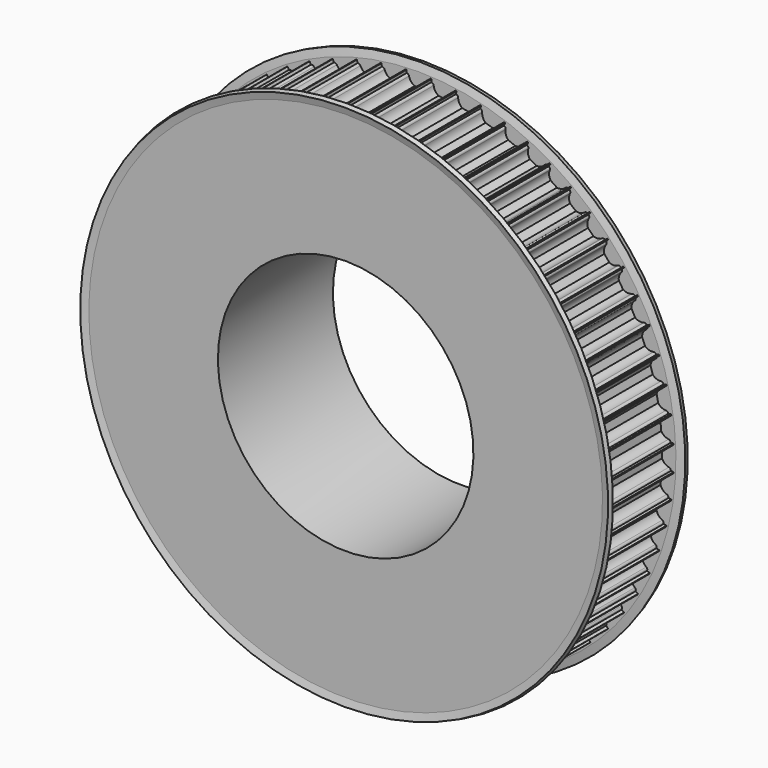
from build123d import *

# Parameters (mm, degrees)
F4_DEPTH = 45.001


with BuildPart() as f1:
    # F0 (on Right) → F1 (revolve)
    with BuildSketch(Plane.YZ):
        Polygon((0, 80), (0, 40), (45, 40), (45, 55.5), (30, 55.5), (30, 80), align=None)
    revolve(axis=Axis((0, 1.1868995641, 0), (0, 1, 0)))

    # F3 (on face) → F4 (cut, through all)
    with BuildSketch(Plane.XZ):
        with BuildLine():
            Line((3.75, 81), (-3.75, 81))
            Line((-3.75, 81), (-3.75, 79))
            Line((-3.75, 79), (-3.6742346142, 79))
            ThreePointArc((-3.6742346142, 79), (-3.1998929651, 78.8309475019), (-2.9393876913, 78.4))
            ThreePointArc((-2.9393876913, 78.4), (-2.3317592111, 77.1124357014), (-1.1989578808, 76.25))
            Line((-1.1989578808, 76.25), (1.1989578808, 76.25))
            ThreePointArc((1.1989578808, 76.25), (2.3317592111, 77.1124357014), (2.9393876913, 78.4))
            ThreePointArc((2.9393876913, 78.4), (3.1998929651, 78.8309475019), (3.6742346142, 79))
            Line((3.6742346142, 79), (3.75, 79))
            Line((3.75, 79), (3.75, 81))
        make_face()
        with BuildLine():
            Line((-4.2074456417, 80.9775271367), (-11.6713310917, 80.2423985842))
            Line((-11.6713310917, 80.2423985842), (-11.4752968111, 78.2520291309))
            Line((-11.4752968111, 78.2520291309), (-11.3998962563, 78.2594554373))
            ThreePointArc((-11.3998962563, 78.2594554373), (-10.9112686495, 78.1377105852), (-10.609777538, 77.7343721953))
            ThreePointArc((-10.609777538, 77.7343721953), (-9.8788715845, 76.5125658767), (-8.6669915211, 75.7653169859))
            Line((-8.6669915211, 75.7653169859), (-6.2806223792, 76.0003538316))
            ThreePointArc((-6.2806223792, 76.0003538316), (-5.2378092781, 76.9696706163), (-4.7593100656, 78.3105929469))
            ThreePointArc((-4.7593100656, 78.3105929469), (-4.5422994377, 78.7649993008), (-4.0868119158, 78.9797313769))
            Line((-4.0868119158, 78.9797313769), (-4.011411361, 78.9871576833))
            Line((-4.011411361, 78.9871576833), (-4.2074456417, 80.9775271367))
        make_face()
        with BuildLine():
            Line((-12.1243712818, 80.1751964202), (-19.4802608848, 78.7120190051))
            Line((-19.4802608848, 78.7120190051), (-19.0900802408, 76.7504484443))
            Line((-19.0900802408, 76.7504484443), (-19.0157706656, 76.7652295378))
            ThreePointArc((-19.0157706656, 76.7652295378), (-18.5175628521, 76.6919648011), (-18.1779894271, 76.3201198924))
            ThreePointArc((-18.1779894271, 76.3201198924), (-17.3308450242, 75.1758382166), (-16.0515572951, 74.5509725517))
            Line((-16.0515572951, 74.5509725517), (-13.6997168124, 75.0187827098))
            ThreePointArc((-13.6997168124, 75.0187827098), (-12.7569348007, 76.0856455273), (-12.412173065, 77.4670120748))
            ThreePointArc((-12.412173065, 77.4670120748), (-12.2407470139, 77.9405010991), (-11.8085002129, 78.1988447659))
            Line((-11.8085002129, 78.1988447659), (-11.7341906378, 78.2136258594))
            Line((-11.7341906378, 78.2136258594), (-12.1243712818, 80.1751964202))
        make_face()
        with BuildLine():
            Line((-19.9245325986, 78.600734734), (-27.1015851166, 76.4235996546))
            Line((-27.1015851166, 76.4235996546), (-26.5210157621, 74.5097189831))
            Line((-26.5210157621, 74.5097189831), (-26.4485128083, 74.5317125137))
            ThreePointArc((-26.4485128083, 74.5317125137), (-25.9455228016, 74.5076334719), (-25.5711373409, 74.1708631141))
            ThreePointArc((-25.5711373409, 74.1708631141), (-24.6159129522, 73.1151261392), (-23.2815377977, 72.6186614981))
            Line((-23.2815377977, 72.6186614981), (-20.9868754836, 73.3147397011))
            ThreePointArc((-20.9868754836, 73.3147397011), (-20.1532040675, 74.4688740793), (-19.9455000526, 75.8773815287))
            ThreePointArc((-19.9455000526, 75.8773815287), (-19.8213095049, 76.3653932652), (-19.4164661979, 76.664860532))
            Line((-19.4164661979, 76.664860532), (-19.3439632441, 76.6868540625))
            Line((-19.3439632441, 76.6868540625), (-19.9245325986, 78.600734734))
        make_face()
        with BuildLine():
            Line((-27.5328097747, 76.2693050048), (-34.4619062685, 73.399179262))
            Line((-34.4619062685, 73.399179262), (-33.6965394038, 71.551420197))
            Line((-33.6965394038, 71.551420197), (-33.6265413145, 71.5804143549))
            ThreePointArc((-33.6265413145, 71.5804143549), (-33.1236131834, 71.6057529024), (-32.7180212236, 71.3073003781))
            ThreePointArc((-32.7180212236, 71.3073003781), (-31.6639161821, 70.3502754283), (-30.2873043643, 69.9869930369))
            Line((-30.2873043643, 69.9869930369), (-28.0719190714, 70.9046356711))
            ThreePointArc((-28.0719190714, 70.9046356711), (-27.3553869623, 72.134926665), (-27.2867409713, 73.5570103197))
            ThreePointArc((-27.2867409713, 73.5570103197), (-27.2109819499, 74.0548449486), (-26.8374409992, 74.3925517819))
            Line((-26.8374409992, 74.3925517819), (-26.7674429099, 74.4215459398))
            Line((-26.7674429099, 74.4215459398), (-27.5328097747, 76.2693050048))
        make_face()
        with BuildLine():
            Line((-34.8759309416, 73.2033601753), (-41.4903404242, 69.6678846491))
            Line((-41.4903404242, 69.6678846491), (-40.5475469506, 67.9040421204))
            Line((-40.5475469506, 67.9040421204), (-40.4807278457, 67.9397576761))
            ThreePointArc((-40.4807278457, 67.9397576761), (-39.9827050629, 68.0142697887), (-39.5498126763, 67.7570093589))
            ThreePointArc((-39.5498126763, 67.7570093589), (-38.40697859, 66.9079131076), (-37.0013876331, 66.6813115739))
            Line((-37.0013876331, 66.6813115739), (-34.8866147328, 67.8116812392))
            ThreePointArc((-34.8866147328, 67.8116812392), (-34.2941225267, 69.106280474), (-34.365195658, 70.5282448909))
            ThreePointArc((-34.365195658, 70.5282448909), (-34.3385977637, 71.0311079926), (-33.9999565728, 71.403802091))
            Line((-33.9999565728, 71.403802091), (-33.9331374679, 71.4395176466))
            Line((-33.9331374679, 71.4395176466), (-34.8759309416, 73.2033601753))
        make_face()
        with BuildLine():
            Line((-41.8831778285, 69.4324269703), (-48.1191999207, 65.2656502227))
            Line((-48.1191999207, 65.2656502227), (-47.0080594547, 63.6027109981))
            Line((-47.0080594547, 63.6027109981), (-46.9450628387, 63.6448039911))
            ThreePointArc((-46.9450628387, 63.6448039911), (-46.4567416359, 63.7677720766), (-46.0007178129, 63.5541812999))
            ThreePointArc((-46.0007178129, 63.5541812999), (-44.7801607986, 62.8211910081), (-43.3591273121, 62.7334526288))
            Line((-43.3591273121, 62.7334526288), (-41.3653332234, 64.0656632473))
            ThreePointArc((-41.3653332234, 64.0656632473), (-40.9025869441, 65.4121030246), (-41.1126947246, 66.8202539091))
            ThreePointArc((-41.1126947246, 66.8202539091), (-41.1355141097, 67.3233026372), (-40.8350339784, 67.7273947527))
            Line((-40.8350339784, 67.7273947527), (-40.7720373624, 67.7694877457))
            Line((-40.7720373624, 67.7694877457), (-41.8831778285, 69.4324269703))
        make_face()
        with BuildLine():
            Line((-48.4870668171, 64.992821538), (-54.2846452174, 60.2348719068))
            Line((-54.2846452174, 60.2348719068), (-53.015858649, 58.688851))
            Line((-53.015858649, 58.688851), (-52.9572912138, 58.736916052))
            ThreePointArc((-52.9572912138, 58.736916052), (-52.4833743912, 58.9071558603), (-52.0086108903, 58.7392917327))
            ThreePointArc((-52.0086108903, 58.7392917327), (-50.7220855794, 58.1294664976), (-49.2992948925, 58.1814362413))
            Line((-49.2992948925, 58.1814362413), (-47.4456809425, 59.7026578965))
            ThreePointArc((-47.4456809425, 59.7026578965), (-47.1171370895, 61.0879712653), (-47.4642560665, 62.4687473546))
            ThreePointArc((-47.4642560665, 62.4687473546), (-47.5362729678, 62.9671370746), (-47.2768476841, 63.3987355793))
            Line((-47.2768476841, 63.3987355793), (-47.2182802488, 63.4468006313))
            Line((-47.2182802488, 63.4468006313), (-48.4870668171, 64.992821538))
        make_face()
        with BuildLine():
            Line((-54.6239988467, 59.9272997056), (-59.9272997056, 54.6239988467))
            Line((-59.9272997056, 54.6239988467), (-58.5130861432, 53.2097852843))
            Line((-58.5130861432, 53.2097852843), (-58.4595119251, 53.2633595024))
            ThreePointArc((-58.4595119251, 53.2633595024), (-58.0045635607, 53.4792315312), (-57.5156326141, 53.3587106759))
            ThreePointArc((-57.5156326141, 53.3587106759), (-56.1755289486, 52.877923448), (-54.7646833134, 53.0691008176))
            Line((-54.7646833134, 53.0691008176), (-53.0691008176, 54.7646833134))
            ThreePointArc((-53.0691008176, 54.7646833134), (-52.877923448, 56.1755289486), (-53.3587106759, 57.5156326141))
            ThreePointArc((-53.3587106759, 57.5156326141), (-53.4792315312, 58.0045635607), (-53.2633595024, 58.4595119251))
            Line((-53.2633595024, 58.4595119251), (-53.2097852843, 58.5130861432))
            Line((-53.2097852843, 58.5130861432), (-54.6239988467, 59.9272997056))
        make_face()
        with BuildLine():
            Line((-60.2348719068, 54.2846452174), (-64.992821538, 48.4870668171))
            Line((-64.992821538, 48.4870668171), (-63.4468006313, 47.2182802488))
            Line((-63.4468006313, 47.2182802488), (-63.3987355793, 47.2768476841))
            ThreePointArc((-63.3987355793, 47.2768476841), (-62.9671370746, 47.5362729678), (-62.4687473546, 47.4642560665))
            ThreePointArc((-62.4687473546, 47.4642560665), (-61.0879712653, 47.1171370895), (-59.7026578965, 47.4456809425))
            Line((-59.7026578965, 47.4456809425), (-58.1814362413, 49.2992948925))
            ThreePointArc((-58.1814362413, 49.2992948925), (-58.1294664976, 50.7220855794), (-58.7392917327, 52.0086108903))
            ThreePointArc((-58.7392917327, 52.0086108903), (-58.9071558603, 52.4833743912), (-58.736916052, 52.9572912138))
            Line((-58.736916052, 52.9572912138), (-58.688851, 53.015858649))
            Line((-58.688851, 53.015858649), (-60.2348719068, 54.2846452174))
        make_face()
        with BuildLine():
            Line((-65.2656502227, 48.1191999207), (-69.4324269703, 41.8831778285))
            Line((-69.4324269703, 41.8831778285), (-67.7694877457, 40.7720373624))
            Line((-67.7694877457, 40.7720373624), (-67.7273947527, 40.8350339784))
            ThreePointArc((-67.7273947527, 40.8350339784), (-67.3233026372, 41.1355141097), (-66.8202539091, 41.1126947246))
            ThreePointArc((-66.8202539091, 41.1126947246), (-65.4121030246, 40.9025869441), (-64.0656632473, 41.3653332234))
            Line((-64.0656632473, 41.3653332234), (-62.7334526288, 43.3591273121))
            ThreePointArc((-62.7334526288, 43.3591273121), (-62.8211910081, 44.7801607986), (-63.5541812999, 46.0007178129))
            ThreePointArc((-63.5541812999, 46.0007178129), (-63.7677720766, 46.4567416359), (-63.6448039911, 46.9450628387))
            Line((-63.6448039911, 46.9450628387), (-63.6027109981, 47.0080594547))
            Line((-63.6027109981, 47.0080594547), (-65.2656502227, 48.1191999207))
        make_face()
        with BuildLine():
            Line((-69.6678846491, 41.4903404242), (-73.2033601753, 34.8759309416))
            Line((-73.2033601753, 34.8759309416), (-71.4395176466, 33.9331374679))
            Line((-71.4395176466, 33.9331374679), (-71.403802091, 33.9999565728))
            ThreePointArc((-71.403802091, 33.9999565728), (-71.0311079926, 34.3385977637), (-70.5282448909, 34.365195658))
            ThreePointArc((-70.5282448909, 34.365195658), (-69.106280474, 34.2941225267), (-67.8116812392, 34.8866147328))
            Line((-67.8116812392, 34.8866147328), (-66.6813115739, 37.0013876331))
            ThreePointArc((-66.6813115739, 37.0013876331), (-66.9079131076, 38.40697859), (-67.7570093589, 39.5498126763))
            ThreePointArc((-67.7570093589, 39.5498126763), (-68.0142697887, 39.9827050629), (-67.9397576761, 40.4807278457))
            Line((-67.9397576761, 40.4807278457), (-67.9040421204, 40.5475469506))
            Line((-67.9040421204, 40.5475469506), (-69.6678846491, 41.4903404242))
        make_face()
        with BuildLine():
            Line((-73.399179262, 34.4619062685), (-76.2693050048, 27.5328097747))
            Line((-76.2693050048, 27.5328097747), (-74.4215459398, 26.7674429099))
            Line((-74.4215459398, 26.7674429099), (-74.3925517819, 26.8374409992))
            ThreePointArc((-74.3925517819, 26.8374409992), (-74.0548449486, 27.2109819499), (-73.5570103197, 27.2867409713))
            ThreePointArc((-73.5570103197, 27.2867409713), (-72.134926665, 27.3553869623), (-70.9046356711, 28.0719190714))
            Line((-70.9046356711, 28.0719190714), (-69.9869930369, 30.2873043643))
            ThreePointArc((-69.9869930369, 30.2873043643), (-70.3502754283, 31.6639161821), (-71.3073003781, 32.7180212236))
            ThreePointArc((-71.3073003781, 32.7180212236), (-71.6057529024, 33.1236131834), (-71.5804143549, 33.6265413145))
            Line((-71.5804143549, 33.6265413145), (-71.551420197, 33.6965394038))
            Line((-71.551420197, 33.6965394038), (-73.399179262, 34.4619062685))
        make_face()
        with BuildLine():
            Line((-76.4235996546, 27.1015851166), (-78.600734734, 19.9245325986))
            Line((-78.600734734, 19.9245325986), (-76.6868540625, 19.3439632441))
            Line((-76.6868540625, 19.3439632441), (-76.664860532, 19.4164661979))
            ThreePointArc((-76.664860532, 19.4164661979), (-76.3653932652, 19.8213095049), (-75.8773815287, 19.9455000526))
            ThreePointArc((-75.8773815287, 19.9455000526), (-74.4688740793, 20.1532040675), (-73.3147397011, 20.9868754836))
            Line((-73.3147397011, 20.9868754836), (-72.6186614981, 23.2815377977))
            ThreePointArc((-72.6186614981, 23.2815377977), (-73.1151261392, 24.6159129522), (-74.1708631141, 25.5711373409))
            ThreePointArc((-74.1708631141, 25.5711373409), (-74.5076334719, 25.9455228016), (-74.5317125137, 26.4485128083))
            Line((-74.5317125137, 26.4485128083), (-74.5097189831, 26.5210157621))
            Line((-74.5097189831, 26.5210157621), (-76.4235996546, 27.1015851166))
        make_face()
        with BuildLine():
            Line((-78.7120190051, 19.4802608848), (-80.1751964202, 12.1243712818))
            Line((-80.1751964202, 12.1243712818), (-78.2136258594, 11.7341906378))
            Line((-78.2136258594, 11.7341906378), (-78.1988447659, 11.8085002129))
            ThreePointArc((-78.1988447659, 11.8085002129), (-77.9405010991, 12.2407470139), (-77.4670120748, 12.412173065))
            ThreePointArc((-77.4670120748, 12.412173065), (-76.0856455273, 12.7569348007), (-75.0187827098, 13.6997168124))
            Line((-75.0187827098, 13.6997168124), (-74.5509725517, 16.0515572951))
            ThreePointArc((-74.5509725517, 16.0515572951), (-75.1758382166, 17.3308450242), (-76.3201198924, 18.1779894271))
            ThreePointArc((-76.3201198924, 18.1779894271), (-76.6919648011, 18.5175628521), (-76.7652295378, 19.0157706656))
            Line((-76.7652295378, 19.0157706656), (-76.7504484443, 19.0900802408))
            Line((-76.7504484443, 19.0900802408), (-78.7120190051, 19.4802608848))
        make_face()
        with BuildLine():
            Line((-80.2423985842, 11.6713310917), (-80.9775271367, 4.2074456417))
            Line((-80.9775271367, 4.2074456417), (-78.9871576833, 4.011411361))
            Line((-78.9871576833, 4.011411361), (-78.9797313769, 4.0868119158))
            ThreePointArc((-78.9797313769, 4.0868119158), (-78.7649993008, 4.5422994377), (-78.3105929469, 4.7593100656))
            ThreePointArc((-78.3105929469, 4.7593100656), (-76.9696706163, 5.2378092781), (-76.0003538316, 6.2806223792))
            Line((-76.0003538316, 6.2806223792), (-75.7653169859, 8.6669915211))
            ThreePointArc((-75.7653169859, 8.6669915211), (-76.5125658767, 9.8788715845), (-77.7343721953, 10.609777538))
            ThreePointArc((-77.7343721953, 10.609777538), (-78.1377105852, 10.9112686495), (-78.2594554373, 11.3998962563))
            Line((-78.2594554373, 11.3998962563), (-78.2520291309, 11.4752968111))
            Line((-78.2520291309, 11.4752968111), (-80.2423985842, 11.6713310917))
        make_face()
        with BuildLine():
            Line((-81, 3.75), (-81, -3.75))
            Line((-81, -3.75), (-79, -3.75))
            Line((-79, -3.75), (-79, -3.6742346142))
            ThreePointArc((-79, -3.6742346142), (-78.8309475019, -3.1998929651), (-78.4, -2.9393876913))
            ThreePointArc((-78.4, -2.9393876913), (-77.1124357014, -2.3317592111), (-76.25, -1.1989578808))
            Line((-76.25, -1.1989578808), (-76.25, 1.1989578808))
            ThreePointArc((-76.25, 1.1989578808), (-77.1124357014, 2.3317592111), (-78.4, 2.9393876913))
            ThreePointArc((-78.4, 2.9393876913), (-78.8309475019, 3.1998929651), (-79, 3.6742346142))
            Line((-79, 3.6742346142), (-79, 3.75))
            Line((-79, 3.75), (-81, 3.75))
        make_face()
        with BuildLine():
            Line((-80.9775271367, -4.2074456417), (-80.2423985842, -11.6713310917))
            Line((-80.2423985842, -11.6713310917), (-78.2520291309, -11.4752968111))
            Line((-78.2520291309, -11.4752968111), (-78.2594554373, -11.3998962563))
            ThreePointArc((-78.2594554373, -11.3998962563), (-78.1377105852, -10.9112686495), (-77.7343721953, -10.609777538))
            ThreePointArc((-77.7343721953, -10.609777538), (-76.5125658767, -9.8788715845), (-75.7653169859, -8.6669915211))
            Line((-75.7653169859, -8.6669915211), (-76.0003538316, -6.2806223792))
            ThreePointArc((-76.0003538316, -6.2806223792), (-76.9696706163, -5.2378092781), (-78.3105929469, -4.7593100656))
            ThreePointArc((-78.3105929469, -4.7593100656), (-78.7649993008, -4.5422994377), (-78.9797313769, -4.0868119158))
            Line((-78.9797313769, -4.0868119158), (-78.9871576833, -4.011411361))
            Line((-78.9871576833, -4.011411361), (-80.9775271367, -4.2074456417))
        make_face()
        with BuildLine():
            Line((-80.1751964202, -12.1243712818), (-78.7120190051, -19.4802608848))
            Line((-78.7120190051, -19.4802608848), (-76.7504484443, -19.0900802408))
            Line((-76.7504484443, -19.0900802408), (-76.7652295378, -19.0157706656))
            ThreePointArc((-76.7652295378, -19.0157706656), (-76.6919648011, -18.5175628521), (-76.3201198924, -18.1779894271))
            ThreePointArc((-76.3201198924, -18.1779894271), (-75.1758382166, -17.3308450242), (-74.5509725517, -16.0515572951))
            Line((-74.5509725517, -16.0515572951), (-75.0187827098, -13.6997168124))
            ThreePointArc((-75.0187827098, -13.6997168124), (-76.0856455273, -12.7569348007), (-77.4670120748, -12.412173065))
            ThreePointArc((-77.4670120748, -12.412173065), (-77.9405010991, -12.2407470139), (-78.1988447659, -11.8085002129))
            Line((-78.1988447659, -11.8085002129), (-78.2136258594, -11.7341906378))
            Line((-78.2136258594, -11.7341906378), (-80.1751964202, -12.1243712818))
        make_face()
        with BuildLine():
            Line((-78.600734734, -19.9245325986), (-76.4235996546, -27.1015851166))
            Line((-76.4235996546, -27.1015851166), (-74.5097189831, -26.5210157621))
            Line((-74.5097189831, -26.5210157621), (-74.5317125137, -26.4485128083))
            ThreePointArc((-74.5317125137, -26.4485128083), (-74.5076334719, -25.9455228016), (-74.1708631141, -25.5711373409))
            ThreePointArc((-74.1708631141, -25.5711373409), (-73.1151261392, -24.6159129522), (-72.6186614981, -23.2815377977))
            Line((-72.6186614981, -23.2815377977), (-73.3147397011, -20.9868754836))
            ThreePointArc((-73.3147397011, -20.9868754836), (-74.4688740793, -20.1532040675), (-75.8773815287, -19.9455000526))
            ThreePointArc((-75.8773815287, -19.9455000526), (-76.3653932652, -19.8213095049), (-76.664860532, -19.4164661979))
            Line((-76.664860532, -19.4164661979), (-76.6868540625, -19.3439632441))
            Line((-76.6868540625, -19.3439632441), (-78.600734734, -19.9245325986))
        make_face()
        with BuildLine():
            Line((-76.2693050048, -27.5328097747), (-73.399179262, -34.4619062685))
            Line((-73.399179262, -34.4619062685), (-71.551420197, -33.6965394038))
            Line((-71.551420197, -33.6965394038), (-71.5804143549, -33.6265413145))
            ThreePointArc((-71.5804143549, -33.6265413145), (-71.6057529024, -33.1236131834), (-71.3073003781, -32.7180212236))
            ThreePointArc((-71.3073003781, -32.7180212236), (-70.3502754283, -31.6639161821), (-69.9869930369, -30.2873043643))
            Line((-69.9869930369, -30.2873043643), (-70.9046356711, -28.0719190714))
            ThreePointArc((-70.9046356711, -28.0719190714), (-72.134926665, -27.3553869623), (-73.5570103197, -27.2867409713))
            ThreePointArc((-73.5570103197, -27.2867409713), (-74.0548449486, -27.2109819499), (-74.3925517819, -26.8374409992))
            Line((-74.3925517819, -26.8374409992), (-74.4215459398, -26.7674429099))
            Line((-74.4215459398, -26.7674429099), (-76.2693050048, -27.5328097747))
        make_face()
        with BuildLine():
            Line((-73.2033601753, -34.8759309416), (-69.6678846491, -41.4903404242))
            Line((-69.6678846491, -41.4903404242), (-67.9040421204, -40.5475469506))
            Line((-67.9040421204, -40.5475469506), (-67.9397576761, -40.4807278457))
            ThreePointArc((-67.9397576761, -40.4807278457), (-68.0142697887, -39.9827050629), (-67.7570093589, -39.5498126763))
            ThreePointArc((-67.7570093589, -39.5498126763), (-66.9079131076, -38.40697859), (-66.6813115739, -37.0013876331))
            Line((-66.6813115739, -37.0013876331), (-67.8116812392, -34.8866147328))
            ThreePointArc((-67.8116812392, -34.8866147328), (-69.106280474, -34.2941225267), (-70.5282448909, -34.365195658))
            ThreePointArc((-70.5282448909, -34.365195658), (-71.0311079926, -34.3385977637), (-71.403802091, -33.9999565728))
            Line((-71.403802091, -33.9999565728), (-71.4395176466, -33.9331374679))
            Line((-71.4395176466, -33.9331374679), (-73.2033601753, -34.8759309416))
        make_face()
        with BuildLine():
            Line((-69.4324269703, -41.8831778285), (-65.2656502227, -48.1191999207))
            Line((-65.2656502227, -48.1191999207), (-63.6027109981, -47.0080594547))
            Line((-63.6027109981, -47.0080594547), (-63.6448039911, -46.9450628387))
            ThreePointArc((-63.6448039911, -46.9450628387), (-63.7677720766, -46.4567416359), (-63.5541812999, -46.0007178129))
            ThreePointArc((-63.5541812999, -46.0007178129), (-62.8211910081, -44.7801607986), (-62.7334526288, -43.3591273121))
            Line((-62.7334526288, -43.3591273121), (-64.0656632473, -41.3653332234))
            ThreePointArc((-64.0656632473, -41.3653332234), (-65.4121030246, -40.9025869441), (-66.8202539091, -41.1126947246))
            ThreePointArc((-66.8202539091, -41.1126947246), (-67.3233026372, -41.1355141097), (-67.7273947527, -40.8350339784))
            Line((-67.7273947527, -40.8350339784), (-67.7694877457, -40.7720373624))
            Line((-67.7694877457, -40.7720373624), (-69.4324269703, -41.8831778285))
        make_face()
        with BuildLine():
            Line((-64.992821538, -48.4870668171), (-60.2348719068, -54.2846452174))
            Line((-60.2348719068, -54.2846452174), (-58.688851, -53.015858649))
            Line((-58.688851, -53.015858649), (-58.736916052, -52.9572912138))
            ThreePointArc((-58.736916052, -52.9572912138), (-58.9071558603, -52.4833743912), (-58.7392917327, -52.0086108903))
            ThreePointArc((-58.7392917327, -52.0086108903), (-58.1294664976, -50.7220855794), (-58.1814362413, -49.2992948925))
            Line((-58.1814362413, -49.2992948925), (-59.7026578965, -47.4456809425))
            ThreePointArc((-59.7026578965, -47.4456809425), (-61.0879712653, -47.1171370895), (-62.4687473546, -47.4642560665))
            ThreePointArc((-62.4687473546, -47.4642560665), (-62.9671370746, -47.5362729678), (-63.3987355793, -47.2768476841))
            Line((-63.3987355793, -47.2768476841), (-63.4468006313, -47.2182802488))
            Line((-63.4468006313, -47.2182802488), (-64.992821538, -48.4870668171))
        make_face()
        with BuildLine():
            Line((-59.9272997056, -54.6239988467), (-54.6239988467, -59.9272997056))
            Line((-54.6239988467, -59.9272997056), (-53.2097852843, -58.5130861432))
            Line((-53.2097852843, -58.5130861432), (-53.2633595024, -58.4595119251))
            ThreePointArc((-53.2633595024, -58.4595119251), (-53.4792315312, -58.0045635607), (-53.3587106759, -57.5156326141))
            ThreePointArc((-53.3587106759, -57.5156326141), (-52.877923448, -56.1755289486), (-53.0691008176, -54.7646833134))
            Line((-53.0691008176, -54.7646833134), (-54.7646833134, -53.0691008176))
            ThreePointArc((-54.7646833134, -53.0691008176), (-56.1755289486, -52.877923448), (-57.5156326141, -53.3587106759))
            ThreePointArc((-57.5156326141, -53.3587106759), (-58.0045635607, -53.4792315312), (-58.4595119251, -53.2633595024))
            Line((-58.4595119251, -53.2633595024), (-58.5130861432, -53.2097852843))
            Line((-58.5130861432, -53.2097852843), (-59.9272997056, -54.6239988467))
        make_face()
        with BuildLine():
            Line((-54.2846452174, -60.2348719068), (-48.4870668171, -64.992821538))
            Line((-48.4870668171, -64.992821538), (-47.2182802488, -63.4468006313))
            Line((-47.2182802488, -63.4468006313), (-47.2768476841, -63.3987355793))
            ThreePointArc((-47.2768476841, -63.3987355793), (-47.5362729678, -62.9671370746), (-47.4642560665, -62.4687473546))
            ThreePointArc((-47.4642560665, -62.4687473546), (-47.1171370895, -61.0879712653), (-47.4456809425, -59.7026578965))
            Line((-47.4456809425, -59.7026578965), (-49.2992948925, -58.1814362413))
            ThreePointArc((-49.2992948925, -58.1814362413), (-50.7220855794, -58.1294664976), (-52.0086108903, -58.7392917327))
            ThreePointArc((-52.0086108903, -58.7392917327), (-52.4833743912, -58.9071558603), (-52.9572912138, -58.736916052))
            Line((-52.9572912138, -58.736916052), (-53.015858649, -58.688851))
            Line((-53.015858649, -58.688851), (-54.2846452174, -60.2348719068))
        make_face()
        with BuildLine():
            Line((-48.1191999207, -65.2656502227), (-41.8831778285, -69.4324269703))
            Line((-41.8831778285, -69.4324269703), (-40.7720373624, -67.7694877457))
            Line((-40.7720373624, -67.7694877457), (-40.8350339784, -67.7273947527))
            ThreePointArc((-40.8350339784, -67.7273947527), (-41.1355141097, -67.3233026372), (-41.1126947246, -66.8202539091))
            ThreePointArc((-41.1126947246, -66.8202539091), (-40.9025869441, -65.4121030246), (-41.3653332234, -64.0656632473))
            Line((-41.3653332234, -64.0656632473), (-43.3591273121, -62.7334526288))
            ThreePointArc((-43.3591273121, -62.7334526288), (-44.7801607986, -62.8211910081), (-46.0007178129, -63.5541812999))
            ThreePointArc((-46.0007178129, -63.5541812999), (-46.4567416359, -63.7677720766), (-46.9450628387, -63.6448039911))
            Line((-46.9450628387, -63.6448039911), (-47.0080594547, -63.6027109981))
            Line((-47.0080594547, -63.6027109981), (-48.1191999207, -65.2656502227))
        make_face()
        with BuildLine():
            Line((-41.4903404242, -69.6678846491), (-34.8759309416, -73.2033601753))
            Line((-34.8759309416, -73.2033601753), (-33.9331374679, -71.4395176466))
            Line((-33.9331374679, -71.4395176466), (-33.9999565728, -71.403802091))
            ThreePointArc((-33.9999565728, -71.403802091), (-34.3385977637, -71.0311079926), (-34.365195658, -70.5282448909))
            ThreePointArc((-34.365195658, -70.5282448909), (-34.2941225267, -69.106280474), (-34.8866147328, -67.8116812392))
            Line((-34.8866147328, -67.8116812392), (-37.0013876331, -66.6813115739))
            ThreePointArc((-37.0013876331, -66.6813115739), (-38.40697859, -66.9079131076), (-39.5498126763, -67.7570093589))
            ThreePointArc((-39.5498126763, -67.7570093589), (-39.9827050629, -68.0142697887), (-40.4807278457, -67.9397576761))
            Line((-40.4807278457, -67.9397576761), (-40.5475469506, -67.9040421204))
            Line((-40.5475469506, -67.9040421204), (-41.4903404242, -69.6678846491))
        make_face()
        with BuildLine():
            Line((-34.4619062685, -73.399179262), (-27.5328097747, -76.2693050048))
            Line((-27.5328097747, -76.2693050048), (-26.7674429099, -74.4215459398))
            Line((-26.7674429099, -74.4215459398), (-26.8374409992, -74.3925517819))
            ThreePointArc((-26.8374409992, -74.3925517819), (-27.2109819499, -74.0548449486), (-27.2867409713, -73.5570103197))
            ThreePointArc((-27.2867409713, -73.5570103197), (-27.3553869623, -72.134926665), (-28.0719190714, -70.9046356711))
            Line((-28.0719190714, -70.9046356711), (-30.2873043643, -69.9869930369))
            ThreePointArc((-30.2873043643, -69.9869930369), (-31.6639161821, -70.3502754283), (-32.7180212236, -71.3073003781))
            ThreePointArc((-32.7180212236, -71.3073003781), (-33.1236131834, -71.6057529024), (-33.6265413145, -71.5804143549))
            Line((-33.6265413145, -71.5804143549), (-33.6965394038, -71.551420197))
            Line((-33.6965394038, -71.551420197), (-34.4619062685, -73.399179262))
        make_face()
        with BuildLine():
            Line((-27.1015851166, -76.4235996546), (-19.9245325986, -78.600734734))
            Line((-19.9245325986, -78.600734734), (-19.3439632441, -76.6868540625))
            Line((-19.3439632441, -76.6868540625), (-19.4164661979, -76.664860532))
            ThreePointArc((-19.4164661979, -76.664860532), (-19.8213095049, -76.3653932652), (-19.9455000526, -75.8773815287))
            ThreePointArc((-19.9455000526, -75.8773815287), (-20.1532040675, -74.4688740793), (-20.9868754836, -73.3147397011))
            Line((-20.9868754836, -73.3147397011), (-23.2815377977, -72.6186614981))
            ThreePointArc((-23.2815377977, -72.6186614981), (-24.6159129522, -73.1151261392), (-25.5711373409, -74.1708631141))
            ThreePointArc((-25.5711373409, -74.1708631141), (-25.9455228016, -74.5076334719), (-26.4485128083, -74.5317125137))
            Line((-26.4485128083, -74.5317125137), (-26.5210157621, -74.5097189831))
            Line((-26.5210157621, -74.5097189831), (-27.1015851166, -76.4235996546))
        make_face()
        with BuildLine():
            Line((-19.4802608848, -78.7120190051), (-12.1243712818, -80.1751964202))
            Line((-12.1243712818, -80.1751964202), (-11.7341906378, -78.2136258594))
            Line((-11.7341906378, -78.2136258594), (-11.8085002129, -78.1988447659))
            ThreePointArc((-11.8085002129, -78.1988447659), (-12.2407470139, -77.9405010991), (-12.412173065, -77.4670120748))
            ThreePointArc((-12.412173065, -77.4670120748), (-12.7569348007, -76.0856455273), (-13.6997168124, -75.0187827098))
            Line((-13.6997168124, -75.0187827098), (-16.0515572951, -74.5509725517))
            ThreePointArc((-16.0515572951, -74.5509725517), (-17.3308450242, -75.1758382166), (-18.1779894271, -76.3201198924))
            ThreePointArc((-18.1779894271, -76.3201198924), (-18.5175628521, -76.6919648011), (-19.0157706656, -76.7652295378))
            Line((-19.0157706656, -76.7652295378), (-19.0900802408, -76.7504484443))
            Line((-19.0900802408, -76.7504484443), (-19.4802608848, -78.7120190051))
        make_face()
        with BuildLine():
            Line((-11.6713310917, -80.2423985842), (-4.2074456417, -80.9775271367))
            Line((-4.2074456417, -80.9775271367), (-4.011411361, -78.9871576833))
            Line((-4.011411361, -78.9871576833), (-4.0868119158, -78.9797313769))
            ThreePointArc((-4.0868119158, -78.9797313769), (-4.5422994377, -78.7649993008), (-4.7593100656, -78.3105929469))
            ThreePointArc((-4.7593100656, -78.3105929469), (-5.2378092781, -76.9696706163), (-6.2806223792, -76.0003538316))
            Line((-6.2806223792, -76.0003538316), (-8.6669915211, -75.7653169859))
            ThreePointArc((-8.6669915211, -75.7653169859), (-9.8788715845, -76.5125658767), (-10.609777538, -77.7343721953))
            ThreePointArc((-10.609777538, -77.7343721953), (-10.9112686495, -78.1377105852), (-11.3998962563, -78.2594554373))
            Line((-11.3998962563, -78.2594554373), (-11.4752968111, -78.2520291309))
            Line((-11.4752968111, -78.2520291309), (-11.6713310917, -80.2423985842))
        make_face()
        with BuildLine():
            Line((-3.75, -81), (3.75, -81))
            Line((3.75, -81), (3.75, -79))
            Line((3.75, -79), (3.6742346142, -79))
            ThreePointArc((3.6742346142, -79), (3.1998929651, -78.8309475019), (2.9393876913, -78.4))
            ThreePointArc((2.9393876913, -78.4), (2.3317592111, -77.1124357014), (1.1989578808, -76.25))
            Line((1.1989578808, -76.25), (-1.1989578808, -76.25))
            ThreePointArc((-1.1989578808, -76.25), (-2.3317592111, -77.1124357014), (-2.9393876913, -78.4))
            ThreePointArc((-2.9393876913, -78.4), (-3.1998929651, -78.8309475019), (-3.6742346142, -79))
            Line((-3.6742346142, -79), (-3.75, -79))
            Line((-3.75, -79), (-3.75, -81))
        make_face()
        with BuildLine():
            Line((4.2074456417, -80.9775271367), (11.6713310917, -80.2423985842))
            Line((11.6713310917, -80.2423985842), (11.4752968111, -78.2520291309))
            Line((11.4752968111, -78.2520291309), (11.3998962563, -78.2594554373))
            ThreePointArc((11.3998962563, -78.2594554373), (10.9112686495, -78.1377105852), (10.609777538, -77.7343721953))
            ThreePointArc((10.609777538, -77.7343721953), (9.8788715845, -76.5125658767), (8.6669915211, -75.7653169859))
            Line((8.6669915211, -75.7653169859), (6.2806223792, -76.0003538316))
            ThreePointArc((6.2806223792, -76.0003538316), (5.2378092781, -76.9696706163), (4.7593100656, -78.3105929469))
            ThreePointArc((4.7593100656, -78.3105929469), (4.5422994377, -78.7649993008), (4.0868119158, -78.9797313769))
            Line((4.0868119158, -78.9797313769), (4.011411361, -78.9871576833))
            Line((4.011411361, -78.9871576833), (4.2074456417, -80.9775271367))
        make_face()
        with BuildLine():
            Line((12.1243712818, -80.1751964202), (19.4802608848, -78.7120190051))
            Line((19.4802608848, -78.7120190051), (19.0900802408, -76.7504484443))
            Line((19.0900802408, -76.7504484443), (19.0157706656, -76.7652295378))
            ThreePointArc((19.0157706656, -76.7652295378), (18.5175628521, -76.6919648011), (18.1779894271, -76.3201198924))
            ThreePointArc((18.1779894271, -76.3201198924), (17.3308450242, -75.1758382166), (16.0515572951, -74.5509725517))
            Line((16.0515572951, -74.5509725517), (13.6997168124, -75.0187827098))
            ThreePointArc((13.6997168124, -75.0187827098), (12.7569348007, -76.0856455273), (12.412173065, -77.4670120748))
            ThreePointArc((12.412173065, -77.4670120748), (12.2407470139, -77.9405010991), (11.8085002129, -78.1988447659))
            Line((11.8085002129, -78.1988447659), (11.7341906378, -78.2136258594))
            Line((11.7341906378, -78.2136258594), (12.1243712818, -80.1751964202))
        make_face()
        with BuildLine():
            Line((19.9245325986, -78.600734734), (27.1015851166, -76.4235996546))
            Line((27.1015851166, -76.4235996546), (26.5210157621, -74.5097189831))
            Line((26.5210157621, -74.5097189831), (26.4485128083, -74.5317125137))
            ThreePointArc((26.4485128083, -74.5317125137), (25.9455228016, -74.5076334719), (25.5711373409, -74.1708631141))
            ThreePointArc((25.5711373409, -74.1708631141), (24.6159129522, -73.1151261392), (23.2815377977, -72.6186614981))
            Line((23.2815377977, -72.6186614981), (20.9868754836, -73.3147397011))
            ThreePointArc((20.9868754836, -73.3147397011), (20.1532040675, -74.4688740793), (19.9455000526, -75.8773815287))
            ThreePointArc((19.9455000526, -75.8773815287), (19.8213095049, -76.3653932652), (19.4164661979, -76.664860532))
            Line((19.4164661979, -76.664860532), (19.3439632441, -76.6868540625))
            Line((19.3439632441, -76.6868540625), (19.9245325986, -78.600734734))
        make_face()
        with BuildLine():
            Line((27.5328097747, -76.2693050048), (34.4619062685, -73.399179262))
            Line((34.4619062685, -73.399179262), (33.6965394038, -71.551420197))
            Line((33.6965394038, -71.551420197), (33.6265413145, -71.5804143549))
            ThreePointArc((33.6265413145, -71.5804143549), (33.1236131834, -71.6057529024), (32.7180212236, -71.3073003781))
            ThreePointArc((32.7180212236, -71.3073003781), (31.6639161821, -70.3502754283), (30.2873043643, -69.9869930369))
            Line((30.2873043643, -69.9869930369), (28.0719190714, -70.9046356711))
            ThreePointArc((28.0719190714, -70.9046356711), (27.3553869623, -72.134926665), (27.2867409713, -73.5570103197))
            ThreePointArc((27.2867409713, -73.5570103197), (27.2109819499, -74.0548449486), (26.8374409992, -74.3925517819))
            Line((26.8374409992, -74.3925517819), (26.7674429099, -74.4215459398))
            Line((26.7674429099, -74.4215459398), (27.5328097747, -76.2693050048))
        make_face()
        with BuildLine():
            Line((34.8759309416, -73.2033601753), (41.4903404242, -69.6678846491))
            Line((41.4903404242, -69.6678846491), (40.5475469506, -67.9040421204))
            Line((40.5475469506, -67.9040421204), (40.4807278457, -67.9397576761))
            ThreePointArc((40.4807278457, -67.9397576761), (39.9827050629, -68.0142697887), (39.5498126763, -67.7570093589))
            ThreePointArc((39.5498126763, -67.7570093589), (38.40697859, -66.9079131076), (37.0013876331, -66.6813115739))
            Line((37.0013876331, -66.6813115739), (34.8866147328, -67.8116812392))
            ThreePointArc((34.8866147328, -67.8116812392), (34.2941225267, -69.106280474), (34.365195658, -70.5282448909))
            ThreePointArc((34.365195658, -70.5282448909), (34.3385977637, -71.0311079926), (33.9999565728, -71.403802091))
            Line((33.9999565728, -71.403802091), (33.9331374679, -71.4395176466))
            Line((33.9331374679, -71.4395176466), (34.8759309416, -73.2033601753))
        make_face()
        with BuildLine():
            Line((41.8831778285, -69.4324269703), (48.1191999207, -65.2656502227))
            Line((48.1191999207, -65.2656502227), (47.0080594547, -63.6027109981))
            Line((47.0080594547, -63.6027109981), (46.9450628387, -63.6448039911))
            ThreePointArc((46.9450628387, -63.6448039911), (46.4567416359, -63.7677720766), (46.0007178129, -63.5541812999))
            ThreePointArc((46.0007178129, -63.5541812999), (44.7801607986, -62.8211910081), (43.3591273121, -62.7334526288))
            Line((43.3591273121, -62.7334526288), (41.3653332234, -64.0656632473))
            ThreePointArc((41.3653332234, -64.0656632473), (40.9025869441, -65.4121030246), (41.1126947246, -66.8202539091))
            ThreePointArc((41.1126947246, -66.8202539091), (41.1355141097, -67.3233026372), (40.8350339784, -67.7273947527))
            Line((40.8350339784, -67.7273947527), (40.7720373624, -67.7694877457))
            Line((40.7720373624, -67.7694877457), (41.8831778285, -69.4324269703))
        make_face()
        with BuildLine():
            Line((48.4870668171, -64.992821538), (54.2846452174, -60.2348719068))
            Line((54.2846452174, -60.2348719068), (53.015858649, -58.688851))
            Line((53.015858649, -58.688851), (52.9572912138, -58.736916052))
            ThreePointArc((52.9572912138, -58.736916052), (52.4833743912, -58.9071558603), (52.0086108903, -58.7392917327))
            ThreePointArc((52.0086108903, -58.7392917327), (50.7220855794, -58.1294664976), (49.2992948925, -58.1814362413))
            Line((49.2992948925, -58.1814362413), (47.4456809425, -59.7026578965))
            ThreePointArc((47.4456809425, -59.7026578965), (47.1171370895, -61.0879712653), (47.4642560665, -62.4687473546))
            ThreePointArc((47.4642560665, -62.4687473546), (47.5362729678, -62.9671370746), (47.2768476841, -63.3987355793))
            Line((47.2768476841, -63.3987355793), (47.2182802488, -63.4468006313))
            Line((47.2182802488, -63.4468006313), (48.4870668171, -64.992821538))
        make_face()
        with BuildLine():
            Line((54.6239988467, -59.9272997056), (59.9272997056, -54.6239988467))
            Line((59.9272997056, -54.6239988467), (58.5130861432, -53.2097852843))
            Line((58.5130861432, -53.2097852843), (58.4595119251, -53.2633595024))
            ThreePointArc((58.4595119251, -53.2633595024), (58.0045635607, -53.4792315312), (57.5156326141, -53.3587106759))
            ThreePointArc((57.5156326141, -53.3587106759), (56.1755289486, -52.877923448), (54.7646833134, -53.0691008176))
            Line((54.7646833134, -53.0691008176), (53.0691008176, -54.7646833134))
            ThreePointArc((53.0691008176, -54.7646833134), (52.877923448, -56.1755289486), (53.3587106759, -57.5156326141))
            ThreePointArc((53.3587106759, -57.5156326141), (53.4792315312, -58.0045635607), (53.2633595024, -58.4595119251))
            Line((53.2633595024, -58.4595119251), (53.2097852843, -58.5130861432))
            Line((53.2097852843, -58.5130861432), (54.6239988467, -59.9272997056))
        make_face()
        with BuildLine():
            Line((60.2348719068, -54.2846452174), (64.992821538, -48.4870668171))
            Line((64.992821538, -48.4870668171), (63.4468006313, -47.2182802488))
            Line((63.4468006313, -47.2182802488), (63.3987355793, -47.2768476841))
            ThreePointArc((63.3987355793, -47.2768476841), (62.9671370746, -47.5362729678), (62.4687473546, -47.4642560665))
            ThreePointArc((62.4687473546, -47.4642560665), (61.0879712653, -47.1171370895), (59.7026578965, -47.4456809425))
            Line((59.7026578965, -47.4456809425), (58.1814362413, -49.2992948925))
            ThreePointArc((58.1814362413, -49.2992948925), (58.1294664976, -50.7220855794), (58.7392917327, -52.0086108903))
            ThreePointArc((58.7392917327, -52.0086108903), (58.9071558603, -52.4833743912), (58.736916052, -52.9572912138))
            Line((58.736916052, -52.9572912138), (58.688851, -53.015858649))
            Line((58.688851, -53.015858649), (60.2348719068, -54.2846452174))
        make_face()
        with BuildLine():
            Line((65.2656502227, -48.1191999207), (69.4324269703, -41.8831778285))
            Line((69.4324269703, -41.8831778285), (67.7694877457, -40.7720373624))
            Line((67.7694877457, -40.7720373624), (67.7273947527, -40.8350339784))
            ThreePointArc((67.7273947527, -40.8350339784), (67.3233026372, -41.1355141097), (66.8202539091, -41.1126947246))
            ThreePointArc((66.8202539091, -41.1126947246), (65.4121030246, -40.9025869441), (64.0656632473, -41.3653332234))
            Line((64.0656632473, -41.3653332234), (62.7334526288, -43.3591273121))
            ThreePointArc((62.7334526288, -43.3591273121), (62.8211910081, -44.7801607986), (63.5541812999, -46.0007178129))
            ThreePointArc((63.5541812999, -46.0007178129), (63.7677720766, -46.4567416359), (63.6448039911, -46.9450628387))
            Line((63.6448039911, -46.9450628387), (63.6027109981, -47.0080594547))
            Line((63.6027109981, -47.0080594547), (65.2656502227, -48.1191999207))
        make_face()
        with BuildLine():
            Line((69.6678846491, -41.4903404242), (73.2033601753, -34.8759309416))
            Line((73.2033601753, -34.8759309416), (71.4395176466, -33.9331374679))
            Line((71.4395176466, -33.9331374679), (71.403802091, -33.9999565728))
            ThreePointArc((71.403802091, -33.9999565728), (71.0311079926, -34.3385977637), (70.5282448909, -34.365195658))
            ThreePointArc((70.5282448909, -34.365195658), (69.106280474, -34.2941225267), (67.8116812392, -34.8866147328))
            Line((67.8116812392, -34.8866147328), (66.6813115739, -37.0013876331))
            ThreePointArc((66.6813115739, -37.0013876331), (66.9079131076, -38.40697859), (67.7570093589, -39.5498126763))
            ThreePointArc((67.7570093589, -39.5498126763), (68.0142697887, -39.9827050629), (67.9397576761, -40.4807278457))
            Line((67.9397576761, -40.4807278457), (67.9040421204, -40.5475469506))
            Line((67.9040421204, -40.5475469506), (69.6678846491, -41.4903404242))
        make_face()
        with BuildLine():
            Line((73.399179262, -34.4619062685), (76.2693050048, -27.5328097747))
            Line((76.2693050048, -27.5328097747), (74.4215459398, -26.7674429099))
            Line((74.4215459398, -26.7674429099), (74.3925517819, -26.8374409992))
            ThreePointArc((74.3925517819, -26.8374409992), (74.0548449486, -27.2109819499), (73.5570103197, -27.2867409713))
            ThreePointArc((73.5570103197, -27.2867409713), (72.134926665, -27.3553869623), (70.9046356711, -28.0719190714))
            Line((70.9046356711, -28.0719190714), (69.9869930369, -30.2873043643))
            ThreePointArc((69.9869930369, -30.2873043643), (70.3502754283, -31.6639161822), (71.3073003781, -32.7180212236))
            ThreePointArc((71.3073003781, -32.7180212236), (71.6057529024, -33.1236131834), (71.5804143549, -33.6265413145))
            Line((71.5804143549, -33.6265413145), (71.551420197, -33.6965394038))
            Line((71.551420197, -33.6965394038), (73.399179262, -34.4619062685))
        make_face()
        with BuildLine():
            Line((76.4235996546, -27.1015851166), (78.600734734, -19.9245325986))
            Line((78.600734734, -19.9245325986), (76.6868540625, -19.3439632441))
            Line((76.6868540625, -19.3439632441), (76.664860532, -19.4164661979))
            ThreePointArc((76.664860532, -19.4164661979), (76.3653932652, -19.8213095049), (75.8773815287, -19.9455000526))
            ThreePointArc((75.8773815287, -19.9455000526), (74.4688740793, -20.1532040675), (73.3147397011, -20.9868754836))
            Line((73.3147397011, -20.9868754836), (72.6186614981, -23.2815377977))
            ThreePointArc((72.6186614981, -23.2815377977), (73.1151261392, -24.6159129522), (74.1708631141, -25.5711373409))
            ThreePointArc((74.1708631141, -25.5711373409), (74.5076334719, -25.9455228016), (74.5317125137, -26.4485128083))
            Line((74.5317125137, -26.4485128083), (74.5097189831, -26.5210157621))
            Line((74.5097189831, -26.5210157621), (76.4235996546, -27.1015851166))
        make_face()
        with BuildLine():
            Line((78.7120190051, -19.4802608848), (80.1751964202, -12.1243712818))
            Line((80.1751964202, -12.1243712818), (78.2136258594, -11.7341906378))
            Line((78.2136258594, -11.7341906378), (78.1988447659, -11.8085002129))
            ThreePointArc((78.1988447659, -11.8085002129), (77.9405010991, -12.2407470139), (77.4670120748, -12.412173065))
            ThreePointArc((77.4670120748, -12.412173065), (76.0856455273, -12.7569348007), (75.0187827098, -13.6997168124))
            Line((75.0187827098, -13.6997168124), (74.5509725517, -16.0515572951))
            ThreePointArc((74.5509725517, -16.0515572951), (75.1758382166, -17.3308450242), (76.3201198924, -18.1779894271))
            ThreePointArc((76.3201198924, -18.1779894271), (76.6919648011, -18.5175628521), (76.7652295378, -19.0157706656))
            Line((76.7652295378, -19.0157706656), (76.7504484443, -19.0900802408))
            Line((76.7504484443, -19.0900802408), (78.7120190051, -19.4802608848))
        make_face()
        with BuildLine():
            Line((80.2423985842, -11.6713310917), (80.9775271367, -4.2074456417))
            Line((80.9775271367, -4.2074456417), (78.9871576833, -4.011411361))
            Line((78.9871576833, -4.011411361), (78.9797313769, -4.0868119158))
            ThreePointArc((78.9797313769, -4.0868119158), (78.7649993008, -4.5422994377), (78.3105929469, -4.7593100656))
            ThreePointArc((78.3105929469, -4.7593100656), (76.9696706163, -5.2378092781), (76.0003538316, -6.2806223792))
            Line((76.0003538316, -6.2806223792), (75.7653169859, -8.6669915211))
            ThreePointArc((75.7653169859, -8.6669915211), (76.5125658767, -9.8788715845), (77.7343721953, -10.609777538))
            ThreePointArc((77.7343721953, -10.609777538), (78.1377105852, -10.9112686495), (78.2594554373, -11.3998962563))
            Line((78.2594554373, -11.3998962563), (78.2520291309, -11.4752968111))
            Line((78.2520291309, -11.4752968111), (80.2423985842, -11.6713310917))
        make_face()
        with BuildLine():
            Line((81, -3.75), (81, 3.75))
            Line((81, 3.75), (79, 3.75))
            Line((79, 3.75), (79, 3.6742346142))
            ThreePointArc((79, 3.6742346142), (78.8309475019, 3.1998929651), (78.4, 2.9393876913))
            ThreePointArc((78.4, 2.9393876913), (77.1124357014, 2.3317592111), (76.25, 1.1989578808))
            Line((76.25, 1.1989578808), (76.25, -1.1989578808))
            ThreePointArc((76.25, -1.1989578808), (77.1124357014, -2.3317592111), (78.4, -2.9393876913))
            ThreePointArc((78.4, -2.9393876913), (78.8309475019, -3.1998929651), (79, -3.6742346142))
            Line((79, -3.6742346142), (79, -3.75))
            Line((79, -3.75), (81, -3.75))
        make_face()
        with BuildLine():
            Line((80.9775271367, 4.2074456417), (80.2423985842, 11.6713310917))
            Line((80.2423985842, 11.6713310917), (78.2520291309, 11.4752968111))
            Line((78.2520291309, 11.4752968111), (78.2594554373, 11.3998962563))
            ThreePointArc((78.2594554373, 11.3998962563), (78.1377105852, 10.9112686495), (77.7343721953, 10.609777538))
            ThreePointArc((77.7343721953, 10.609777538), (76.5125658767, 9.8788715845), (75.7653169859, 8.6669915211))
            Line((75.7653169859, 8.6669915211), (76.0003538316, 6.2806223792))
            ThreePointArc((76.0003538316, 6.2806223792), (76.9696706163, 5.2378092781), (78.3105929469, 4.7593100656))
            ThreePointArc((78.3105929469, 4.7593100656), (78.7649993008, 4.5422994377), (78.9797313769, 4.0868119158))
            Line((78.9797313769, 4.0868119158), (78.9871576833, 4.011411361))
            Line((78.9871576833, 4.011411361), (80.9775271367, 4.2074456417))
        make_face()
        with BuildLine():
            Line((80.1751964202, 12.1243712818), (78.7120190051, 19.4802608848))
            Line((78.7120190051, 19.4802608848), (76.7504484443, 19.0900802408))
            Line((76.7504484443, 19.0900802408), (76.7652295378, 19.0157706656))
            ThreePointArc((76.7652295378, 19.0157706656), (76.6919648011, 18.5175628521), (76.3201198924, 18.1779894271))
            ThreePointArc((76.3201198924, 18.1779894271), (75.1758382166, 17.3308450242), (74.5509725517, 16.0515572951))
            Line((74.5509725517, 16.0515572951), (75.0187827098, 13.6997168124))
            ThreePointArc((75.0187827098, 13.6997168124), (76.0856455273, 12.7569348007), (77.4670120748, 12.412173065))
            ThreePointArc((77.4670120748, 12.412173065), (77.9405010991, 12.2407470139), (78.1988447659, 11.8085002129))
            Line((78.1988447659, 11.8085002129), (78.2136258594, 11.7341906378))
            Line((78.2136258594, 11.7341906378), (80.1751964202, 12.1243712818))
        make_face()
        with BuildLine():
            Line((78.600734734, 19.9245325986), (76.4235996546, 27.1015851166))
            Line((76.4235996546, 27.1015851166), (74.5097189831, 26.5210157621))
            Line((74.5097189831, 26.5210157621), (74.5317125137, 26.4485128083))
            ThreePointArc((74.5317125137, 26.4485128083), (74.5076334719, 25.9455228016), (74.1708631141, 25.5711373409))
            ThreePointArc((74.1708631141, 25.5711373409), (73.1151261392, 24.6159129522), (72.6186614981, 23.2815377977))
            Line((72.6186614981, 23.2815377977), (73.3147397011, 20.9868754836))
            ThreePointArc((73.3147397011, 20.9868754836), (74.4688740793, 20.1532040675), (75.8773815287, 19.9455000526))
            ThreePointArc((75.8773815287, 19.9455000526), (76.3653932652, 19.8213095049), (76.664860532, 19.4164661979))
            Line((76.664860532, 19.4164661979), (76.6868540625, 19.3439632441))
            Line((76.6868540625, 19.3439632441), (78.600734734, 19.9245325986))
        make_face()
        with BuildLine():
            Line((76.2693050048, 27.5328097747), (73.399179262, 34.4619062685))
            Line((73.399179262, 34.4619062685), (71.551420197, 33.6965394038))
            Line((71.551420197, 33.6965394038), (71.5804143549, 33.6265413145))
            ThreePointArc((71.5804143549, 33.6265413145), (71.6057529024, 33.1236131834), (71.3073003781, 32.7180212236))
            ThreePointArc((71.3073003781, 32.7180212236), (70.3502754283, 31.6639161821), (69.9869930369, 30.2873043643))
            Line((69.9869930369, 30.2873043643), (70.9046356711, 28.0719190714))
            ThreePointArc((70.9046356711, 28.0719190714), (72.134926665, 27.3553869623), (73.5570103197, 27.2867409713))
            ThreePointArc((73.5570103197, 27.2867409713), (74.0548449486, 27.2109819499), (74.3925517819, 26.8374409992))
            Line((74.3925517819, 26.8374409992), (74.4215459398, 26.7674429099))
            Line((74.4215459398, 26.7674429099), (76.2693050048, 27.5328097747))
        make_face()
        with BuildLine():
            Line((73.2033601753, 34.8759309416), (69.6678846491, 41.4903404242))
            Line((69.6678846491, 41.4903404242), (67.9040421204, 40.5475469506))
            Line((67.9040421204, 40.5475469506), (67.9397576761, 40.4807278457))
            ThreePointArc((67.9397576761, 40.4807278457), (68.0142697887, 39.9827050629), (67.7570093589, 39.5498126763))
            ThreePointArc((67.7570093589, 39.5498126763), (66.9079131076, 38.40697859), (66.6813115739, 37.0013876331))
            Line((66.6813115739, 37.0013876331), (67.8116812392, 34.8866147328))
            ThreePointArc((67.8116812392, 34.8866147328), (69.106280474, 34.2941225267), (70.5282448909, 34.365195658))
            ThreePointArc((70.5282448909, 34.365195658), (71.0311079926, 34.3385977637), (71.403802091, 33.9999565728))
            Line((71.403802091, 33.9999565728), (71.4395176466, 33.9331374679))
            Line((71.4395176466, 33.9331374679), (73.2033601753, 34.8759309416))
        make_face()
        with BuildLine():
            Line((69.4324269703, 41.8831778285), (65.2656502227, 48.1191999207))
            Line((65.2656502227, 48.1191999207), (63.6027109981, 47.0080594547))
            Line((63.6027109981, 47.0080594547), (63.6448039911, 46.9450628387))
            ThreePointArc((63.6448039911, 46.9450628387), (63.7677720766, 46.4567416359), (63.5541812999, 46.0007178129))
            ThreePointArc((63.5541812999, 46.0007178129), (62.8211910081, 44.7801607986), (62.7334526288, 43.3591273121))
            Line((62.7334526288, 43.3591273121), (64.0656632473, 41.3653332234))
            ThreePointArc((64.0656632473, 41.3653332234), (65.4121030246, 40.9025869441), (66.8202539091, 41.1126947246))
            ThreePointArc((66.8202539091, 41.1126947246), (67.3233026372, 41.1355141097), (67.7273947527, 40.8350339784))
            Line((67.7273947527, 40.8350339784), (67.7694877457, 40.7720373624))
            Line((67.7694877457, 40.7720373624), (69.4324269703, 41.8831778285))
        make_face()
        with BuildLine():
            Line((64.992821538, 48.4870668171), (60.2348719068, 54.2846452174))
            Line((60.2348719068, 54.2846452174), (58.688851, 53.015858649))
            Line((58.688851, 53.015858649), (58.736916052, 52.9572912138))
            ThreePointArc((58.736916052, 52.9572912138), (58.9071558603, 52.4833743912), (58.7392917327, 52.0086108903))
            ThreePointArc((58.7392917327, 52.0086108903), (58.1294664976, 50.7220855794), (58.1814362413, 49.2992948925))
            Line((58.1814362413, 49.2992948925), (59.7026578965, 47.4456809425))
            ThreePointArc((59.7026578965, 47.4456809425), (61.0879712653, 47.1171370895), (62.4687473546, 47.4642560665))
            ThreePointArc((62.4687473546, 47.4642560665), (62.9671370746, 47.5362729678), (63.3987355793, 47.2768476841))
            Line((63.3987355793, 47.2768476841), (63.4468006313, 47.2182802488))
            Line((63.4468006313, 47.2182802488), (64.992821538, 48.4870668171))
        make_face()
        with BuildLine():
            Line((59.9272997056, 54.6239988467), (54.6239988467, 59.9272997056))
            Line((54.6239988467, 59.9272997056), (53.2097852843, 58.5130861432))
            Line((53.2097852843, 58.5130861432), (53.2633595024, 58.4595119251))
            ThreePointArc((53.2633595024, 58.4595119251), (53.4792315312, 58.0045635607), (53.3587106759, 57.5156326141))
            ThreePointArc((53.3587106759, 57.5156326141), (52.877923448, 56.1755289486), (53.0691008176, 54.7646833134))
            Line((53.0691008176, 54.7646833134), (54.7646833134, 53.0691008176))
            ThreePointArc((54.7646833134, 53.0691008176), (56.1755289486, 52.877923448), (57.5156326141, 53.3587106759))
            ThreePointArc((57.5156326141, 53.3587106759), (58.0045635607, 53.4792315312), (58.4595119251, 53.2633595024))
            Line((58.4595119251, 53.2633595024), (58.5130861432, 53.2097852843))
            Line((58.5130861432, 53.2097852843), (59.9272997056, 54.6239988467))
        make_face()
        with BuildLine():
            Line((54.2846452174, 60.2348719068), (48.4870668171, 64.992821538))
            Line((48.4870668171, 64.992821538), (47.2182802488, 63.4468006313))
            Line((47.2182802488, 63.4468006313), (47.2768476841, 63.3987355793))
            ThreePointArc((47.2768476841, 63.3987355793), (47.5362729678, 62.9671370746), (47.4642560665, 62.4687473546))
            ThreePointArc((47.4642560665, 62.4687473546), (47.1171370895, 61.0879712653), (47.4456809425, 59.7026578965))
            Line((47.4456809425, 59.7026578965), (49.2992948925, 58.1814362413))
            ThreePointArc((49.2992948925, 58.1814362413), (50.7220855794, 58.1294664976), (52.0086108903, 58.7392917327))
            ThreePointArc((52.0086108903, 58.7392917327), (52.4833743912, 58.9071558603), (52.9572912138, 58.736916052))
            Line((52.9572912138, 58.736916052), (53.015858649, 58.688851))
            Line((53.015858649, 58.688851), (54.2846452174, 60.2348719068))
        make_face()
        with BuildLine():
            Line((48.1191999207, 65.2656502227), (41.8831778285, 69.4324269703))
            Line((41.8831778285, 69.4324269703), (40.7720373624, 67.7694877457))
            Line((40.7720373624, 67.7694877457), (40.8350339784, 67.7273947527))
            ThreePointArc((40.8350339784, 67.7273947527), (41.1355141097, 67.3233026372), (41.1126947246, 66.8202539091))
            ThreePointArc((41.1126947246, 66.8202539091), (40.9025869441, 65.4121030246), (41.3653332234, 64.0656632473))
            Line((41.3653332234, 64.0656632473), (43.3591273121, 62.7334526288))
            ThreePointArc((43.3591273121, 62.7334526288), (44.7801607986, 62.8211910081), (46.0007178129, 63.5541812999))
            ThreePointArc((46.0007178129, 63.5541812999), (46.4567416359, 63.7677720766), (46.9450628387, 63.6448039911))
            Line((46.9450628387, 63.6448039911), (47.0080594547, 63.6027109981))
            Line((47.0080594547, 63.6027109981), (48.1191999207, 65.2656502227))
        make_face()
        with BuildLine():
            Line((41.4903404242, 69.6678846491), (34.8759309416, 73.2033601753))
            Line((34.8759309416, 73.2033601753), (33.9331374679, 71.4395176466))
            Line((33.9331374679, 71.4395176466), (33.9999565728, 71.403802091))
            ThreePointArc((33.9999565728, 71.403802091), (34.3385977637, 71.0311079926), (34.365195658, 70.5282448909))
            ThreePointArc((34.365195658, 70.5282448909), (34.2941225267, 69.106280474), (34.8866147328, 67.8116812392))
            Line((34.8866147328, 67.8116812392), (37.0013876331, 66.6813115739))
            ThreePointArc((37.0013876331, 66.6813115739), (38.40697859, 66.9079131076), (39.5498126763, 67.7570093589))
            ThreePointArc((39.5498126763, 67.7570093589), (39.9827050629, 68.0142697887), (40.4807278457, 67.9397576761))
            Line((40.4807278457, 67.9397576761), (40.5475469506, 67.9040421204))
            Line((40.5475469506, 67.9040421204), (41.4903404242, 69.6678846491))
        make_face()
        with BuildLine():
            Line((34.4619062685, 73.399179262), (27.5328097747, 76.2693050048))
            Line((27.5328097747, 76.2693050048), (26.7674429099, 74.4215459398))
            Line((26.7674429099, 74.4215459398), (26.8374409992, 74.3925517819))
            ThreePointArc((26.8374409992, 74.3925517819), (27.2109819499, 74.0548449486), (27.2867409713, 73.5570103197))
            ThreePointArc((27.2867409713, 73.5570103197), (27.3553869623, 72.134926665), (28.0719190714, 70.9046356711))
            Line((28.0719190714, 70.9046356711), (30.2873043643, 69.9869930369))
            ThreePointArc((30.2873043643, 69.9869930369), (31.6639161822, 70.3502754283), (32.7180212236, 71.3073003781))
            ThreePointArc((32.7180212236, 71.3073003781), (33.1236131834, 71.6057529024), (33.6265413145, 71.5804143549))
            Line((33.6265413145, 71.5804143549), (33.6965394038, 71.551420197))
            Line((33.6965394038, 71.551420197), (34.4619062685, 73.399179262))
        make_face()
        with BuildLine():
            Line((27.1015851166, 76.4235996546), (19.9245325986, 78.600734734))
            Line((19.9245325986, 78.600734734), (19.3439632441, 76.6868540625))
            Line((19.3439632441, 76.6868540625), (19.4164661979, 76.664860532))
            ThreePointArc((19.4164661979, 76.664860532), (19.8213095049, 76.3653932652), (19.9455000526, 75.8773815287))
            ThreePointArc((19.9455000526, 75.8773815287), (20.1532040675, 74.4688740793), (20.9868754836, 73.3147397011))
            Line((20.9868754836, 73.3147397011), (23.2815377977, 72.6186614981))
            ThreePointArc((23.2815377977, 72.6186614981), (24.6159129522, 73.1151261392), (25.5711373409, 74.1708631141))
            ThreePointArc((25.5711373409, 74.1708631141), (25.9455228016, 74.5076334719), (26.4485128083, 74.5317125137))
            Line((26.4485128083, 74.5317125137), (26.5210157621, 74.5097189831))
            Line((26.5210157621, 74.5097189831), (27.1015851166, 76.4235996546))
        make_face()
        with BuildLine():
            Line((19.4802608848, 78.7120190051), (12.1243712818, 80.1751964202))
            Line((12.1243712818, 80.1751964202), (11.7341906378, 78.2136258594))
            Line((11.7341906378, 78.2136258594), (11.8085002129, 78.1988447659))
            ThreePointArc((11.8085002129, 78.1988447659), (12.2407470139, 77.9405010991), (12.412173065, 77.4670120748))
            ThreePointArc((12.412173065, 77.4670120748), (12.7569348007, 76.0856455273), (13.6997168124, 75.0187827098))
            Line((13.6997168124, 75.0187827098), (16.0515572951, 74.5509725517))
            ThreePointArc((16.0515572951, 74.5509725517), (17.3308450242, 75.1758382166), (18.1779894271, 76.3201198924))
            ThreePointArc((18.1779894271, 76.3201198924), (18.5175628521, 76.6919648011), (19.0157706656, 76.7652295378))
            Line((19.0157706656, 76.7652295378), (19.0900802408, 76.7504484443))
            Line((19.0900802408, 76.7504484443), (19.4802608848, 78.7120190051))
        make_face()
        with BuildLine():
            Line((11.6713310917, 80.2423985842), (4.2074456417, 80.9775271367))
            Line((4.2074456417, 80.9775271367), (4.011411361, 78.9871576833))
            Line((4.011411361, 78.9871576833), (4.0868119158, 78.9797313769))
            ThreePointArc((4.0868119158, 78.9797313769), (4.5422994377, 78.7649993008), (4.7593100656, 78.3105929469))
            ThreePointArc((4.7593100656, 78.3105929469), (5.2378092781, 76.9696706163), (6.2806223792, 76.0003538316))
            Line((6.2806223792, 76.0003538316), (8.6669915211, 75.7653169859))
            ThreePointArc((8.6669915211, 75.7653169859), (9.8788715845, 76.5125658767), (10.609777538, 77.7343721953))
            ThreePointArc((10.609777538, 77.7343721953), (10.9112686495, 78.1377105852), (11.3998962563, 78.2594554373))
            Line((11.3998962563, 78.2594554373), (11.4752968111, 78.2520291309))
            Line((11.4752968111, 78.2520291309), (11.6713310917, 80.2423985842))
        make_face()
    extrude(amount=-F4_DEPTH, mode=Mode.SUBTRACT)

    # F5 (on Right) → F6 (revolve)
    with BuildSketch(Plane.YZ):
        Polygon((0, 80.4145822957), (0, 80.6120610421), (1.5, 80.6120610421), (0.8569219382, 83.0120610421), (-0.5919668013, 82.6238324745), align=None)
        Polygon((1.5, 80.6120610421), (0, 80.6120610421), (0, 80.4145822957), (0.0511112606, 80.2238324745), align=None)
        Polygon((1.5, 75.6120610421), (1.5, 80.6120610421), (0.0511112606, 80.2238324745), (0, 80.4145822957), (0, 75.6120610421), align=None)
        Polygon((30.5919668013, 82.6238324745), (29.1430780618, 83.0120610421), (28.5, 80.6120610421), (30, 80.6120610421), (30, 80.4145822957), align=None)
        Polygon((29.9488887394, 80.2238324745), (28.5, 80.6120610421), (28.5, 75.6120610421), (30, 75.6120610421), (30, 80.4145822957), align=None)
        Polygon((30, 80.6120610421), (28.5, 80.6120610421), (29.9488887394, 80.2238324745), (30, 80.4145822957), align=None)
    revolve(axis=Axis((0, 10.9949558973, 0), (0, 1, 0)))


solid = f1.part
